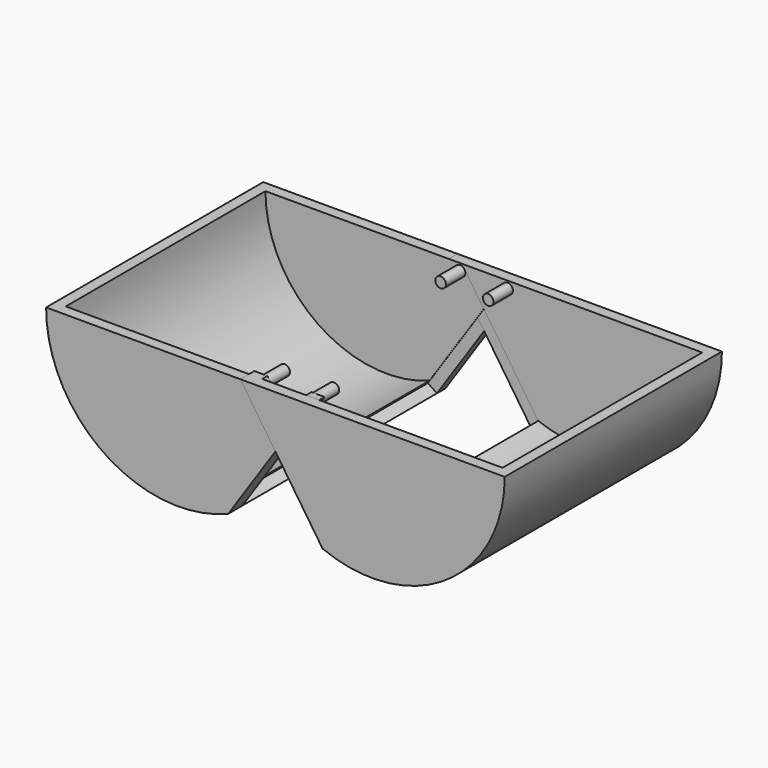
from build123d import *

# Parameters (mm, degrees)
F1_DEPTH = 77
F2_T     = -3.1
F3_W     = 69
F3_H     = 41.8446557946
F4_DEPTH = 3.1
F6_R     = 1.5
F7_DEPTH = 7
F5_R     = 1.5
F8_DEPTH = 7


with BuildPart() as f1:
    # F0 (on Front) → F1 (new body)
    with BuildSketch(Plane.XZ):
        with BuildLine():
            Line((-27.5404918939, 11.756635271), (-65.0404918939, 11.756635271))
            ThreePointArc((-65.0404918939, 11.756635271), (-48.4628197912, -19.3641969055), (-13.3868281415, -22.9697783415))
            Line((-13.3868281415, -22.9697783415), (9.9595081061, 11.756635271))
            Line((9.9595081061, 11.756635271), (-27.5404918939, 11.756635271))
        make_face()
    extrude(amount=F1_DEPTH)

    # F2
    f2_openings = [f1.faces().sort_by_distance(p)[0] for p in [
        (-27.540492, -38.5, 11.756635),
    ]]
    offset(amount=F2_T, openings=f2_openings)

    # F3 (on face) → F4 (cut)
    with BuildSketch(Plane(origin=(1.4157240499, 0, -0.9517818359), x_dir=(0, 1, 0), z_dir=(0.829888858, 0, -0.5579287439))):
        with Locations((-37.5, -5.6089314301)):
            Rectangle(F3_W, F3_H)
    extrude(amount=-F4_DEPTH, mode=Mode.SUBTRACT)

    # F6 (on face) → F7 (join)
    with BuildSketch(Plane.XZ.offset(3)):
        with Locations((6.7472014677, 9.756635271)):
            Circle(F6_R)
    extrude(amount=F7_DEPTH)

    # F5 (on face) → F8 (join)
    with BuildSketch(Plane(origin=(0, -72, 0), x_dir=(-1, 0, 0), z_dir=(0, 1, 0))):
        with Locations((-6.9759306399, 10.0968575549)):
            Circle(F5_R)
    extrude(amount=F8_DEPTH)


with BuildPart() as f9_1:
    # F9: instance of F1
    add(f1.part.mirror(Plane.YZ))


solid = Compound([f1.part, f9_1.part])
